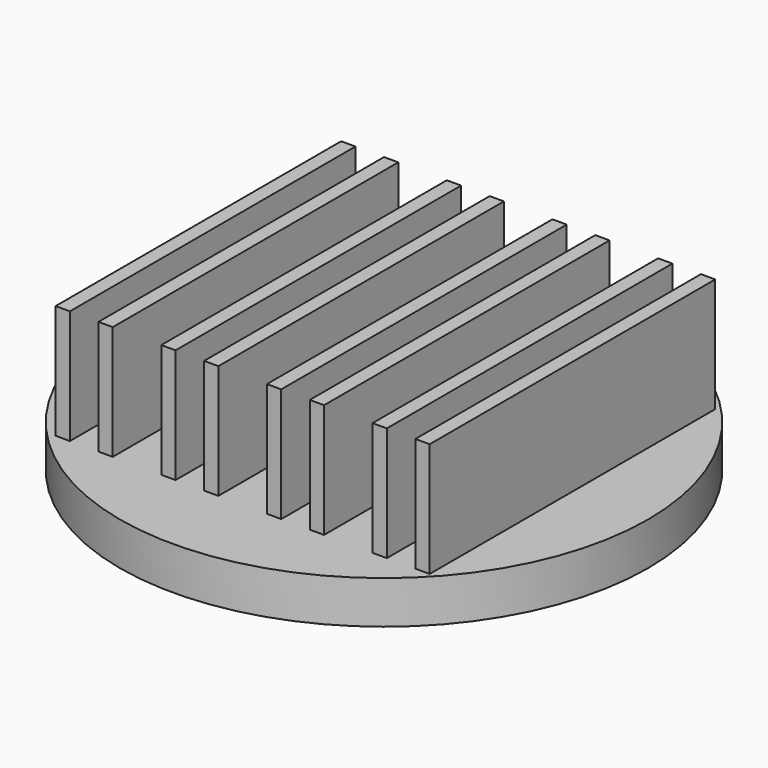
from build123d import *

# Parameters (mm, degrees)
F0_R     = 18.5
F1_DEPTH = 3
F2_W     = 1
F2_H     = 25
F3_DEPTH = 8


with BuildPart() as f1:
    # F0 (on Top) → F1 (new body)
    with BuildSketch(Plane.XY):
        Circle(F0_R)
    extrude(amount=F1_DEPTH)

    # F2 (on face) → F3 (join)
    with BuildSketch(Plane.XY.offset(3)):
        with Locations((-12.5, 0)):
            Rectangle(F2_W, F2_H)
        with Locations((-9.5, 0)):
            Rectangle(F2_W, F2_H)
        with Locations((-5.1, 0)):
            Rectangle(F2_W, F2_H)
        with Locations((-2.1, 0)):
            Rectangle(F2_W, F2_H)
        with Locations((2.3, 0)):
            Rectangle(F2_W, F2_H)
        with Locations((5.3, 0)):
            Rectangle(F2_W, F2_H)
        with Locations((9.7, 0)):
            Rectangle(F2_W, F2_H)
        with Locations((12.7, 0)):
            Rectangle(F2_W, F2_H)
    extrude(amount=F3_DEPTH)


solid = f1.part
